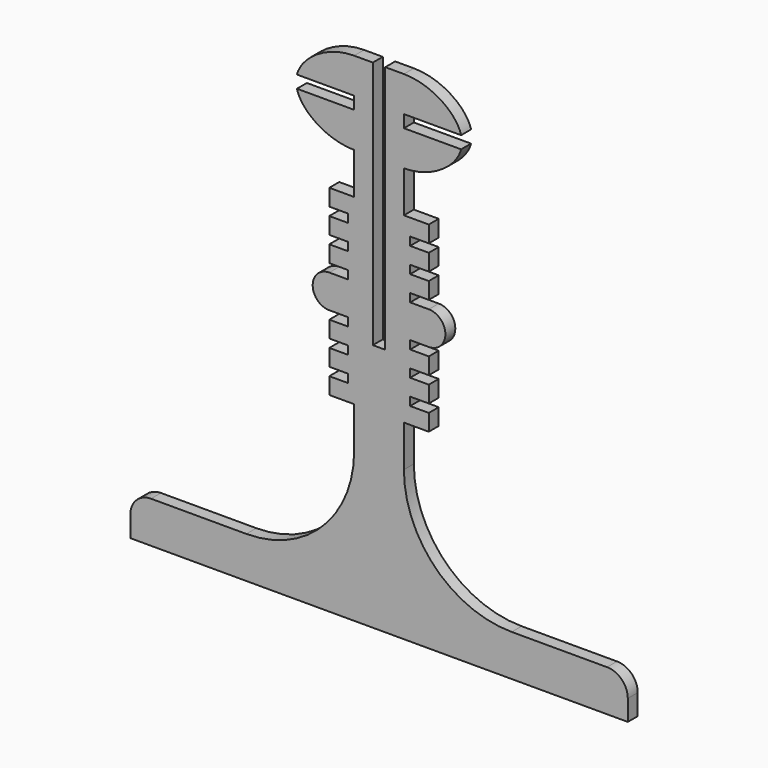
from build123d import *

# Parameters (mm, degrees)
F1_DEPTH = 3


with BuildPart() as f1:
    # F0 (on Front) → F1 (new body)
    with BuildSketch(Plane.XZ):
        with BuildLine():
            Line((-60, 5), (-60, 0))
            Line((-60, 0), (60, 0))
            Line((60, 0), (60, 5))
            ThreePointArc((60, 5), (58.535534, 8.535534), (55, 10))
            Line((55, 10), (32, 10))
            ThreePointArc((32, 10), (13.615224, 17.615224), (6, 36))
            Line((6, 36), (6, 46))
            Line((6, 46), (6, 90))
            Line((6, 90), (6, 100))
            add(Edge.make_bspline(
                [(19.798961, 108.5), (18.615456, 104.038908), (12.38919, 99.977978), (6, 100)],
                knots=[18.928415, 18.928415, 18.928415, 18.928415, 34.409301, 34.409301, 34.409301, 34.409301], degree=3))
            Line((19.798961, 108.5), (6, 108.5))
            Line((6, 108.5), (6, 111.5))
            Line((6, 111.5), (19.798784, 111.5))
            add(Edge.make_bspline(
                [(6, 120), (12.388873, 120), (18.614839, 115.957081), (19.798784, 111.5)],
                knots=[0, 0, 0, 0, 15.480118, 15.480118, 15.480118, 15.480118], degree=3))
            Line((6, 120), (1.5, 120))
            Line((1.5, 120), (1.5, 60))
            Line((1.5, 60), (-1.5, 60))
            Line((-1.5, 60), (-1.5, 100))
            Line((-1.5, 100), (-6, 100))
            Line((-6, 100), (-6, 90))
            Line((-6, 90), (-6, 68))
            Line((-6, 68), (-6, 46))
            Line((-6, 46), (-6, 36))
            ThreePointArc((-6, 36), (-13.615224, 17.615224), (-32, 10))
            Line((-32, 10), (-55, 10))
            ThreePointArc((-55, 10), (-58.535534, 8.535534), (-60, 5))
        make_face()
        with BuildLine():
            add(Edge.make_bspline(
                [(-19.798961, 108.5), (-18.615456, 104.038908), (-12.38919, 99.977978), (-6, 100)],
                knots=[18.928415, 18.928415, 18.928415, 18.928415, 34.409301, 34.409301, 34.409301, 34.409301], degree=3))
            Line((-6, 100), (-1.5, 100))
            Line((-1.5, 100), (-1.5, 120))
            Line((-1.5, 120), (-6, 120))
            add(Edge.make_bspline(
                [(-6, 120), (-12.388873, 120), (-18.614839, 115.957081), (-19.798784, 111.5)],
                knots=[0, 0, 0, 0, 15.480118, 15.480118, 15.480118, 15.480118], degree=3))
            Line((-19.798784, 111.5), (-6, 111.5))
            Line((-6, 111.5), (-6, 110))
            Line((-6, 110), (-6, 108.5))
            Line((-6, 108.5), (-19.798961, 108.5))
        make_face()
        Polygon((-12, 68), (-6, 68), (-6, 90), (-12, 90), (-12, 86), (-7.5, 86), (-7.5, 84), (-12, 84), (-12, 80), (-7.5, 80), (-7.5, 78), (-12, 78), (-12, 74), (-7.5, 74), (-7.5, 72), (-12, 72), align=None)
        Polygon((-12, 46), (-6, 46), (-6, 68), (-12, 68), (-12, 64), (-7.5, 64), (-7.5, 62), (-12, 62), (-12, 58), (-7.5, 58), (-7.5, 56), (-12, 56), (-12, 52), (-7.5, 52), (-7.5, 50), (-12, 50), align=None)
        with BuildLine():
            Line((-12, 64), (-12, 68))
            Line((-12, 68), (-12, 72))
            ThreePointArc((-12, 72), (-16, 68), (-12, 64))
        make_face()
        with BuildLine():
            Line((12, 68), (12, 64))
            ThreePointArc((12, 64), (16, 68), (12, 72))
            Line((12, 72), (12, 68))
        make_face()
        Polygon((6, 90), (6, 46), (12, 46), (12, 50), (7.5, 50), (7.5, 52), (12, 52), (12, 56), (7.5, 56), (7.5, 58), (12, 58), (12, 62), (7.5, 62), (7.5, 64), (12, 64), (12, 68), (12, 72), (7.5, 72), (7.5, 74), (12, 74), (12, 78), (7.5, 78), (7.5, 80), (12, 80), (12, 84), (7.5, 84), (7.5, 86), (12, 86), (12, 90), align=None)
    extrude(amount=F1_DEPTH)


solid = f1.part
